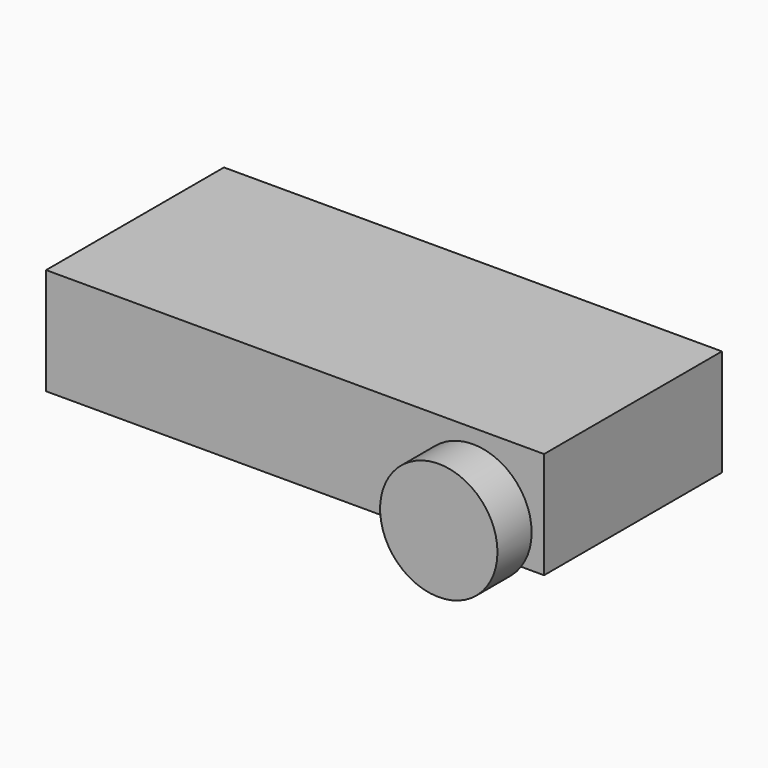
from build123d import *

# Parameters (mm, degrees)
F1_DEPTH = 39.6875
F2_R     = 20.955
F3_DEPTH = 15.24


with BuildPart() as f1:
    # F0 (on Front) → F1 (new body, symmetric)
    with BuildSketch(Plane.XZ):
        with BuildLine():
            Line((80.6791047274, -19.05), (88.9, -19.05))
            Line((88.9, -19.05), (88.9, 19.05))
            Line((88.9, 19.05), (-88.9, 19.05))
            Line((-88.9, 19.05), (-88.9, -19.05))
            Line((-88.9, -19.05), (46.3208952726, -19.05))
            ThreePointArc((46.3208952726, -19.05), (57.2101714874, 12.9383482925), (84.455, -7.0504005998))
            ThreePointArc((84.455, -7.0504005998), (83.4887488924, -13.3402291125), (80.6791047274, -19.05))
        make_face()
        with BuildLine():
            Line((46.3208952726, -19.05), (80.6791047274, -19.05))
            ThreePointArc((80.6791047274, -19.05), (83.4887488924, -13.3402291125), (84.455, -7.0504005998))
            ThreePointArc((84.455, -7.0504005998), (57.2101714874, 12.9383482925), (46.3208952726, -19.05))
        make_face()
    extrude(amount=F1_DEPTH, both=True)

    # F2 (on face) → F3 (join)
    with BuildSketch(Plane.XZ.offset(39.6875)):
        with Locations((63.5, -7.0504005998)):
            Circle(F2_R)
    extrude(amount=F3_DEPTH)


solid = f1.part
